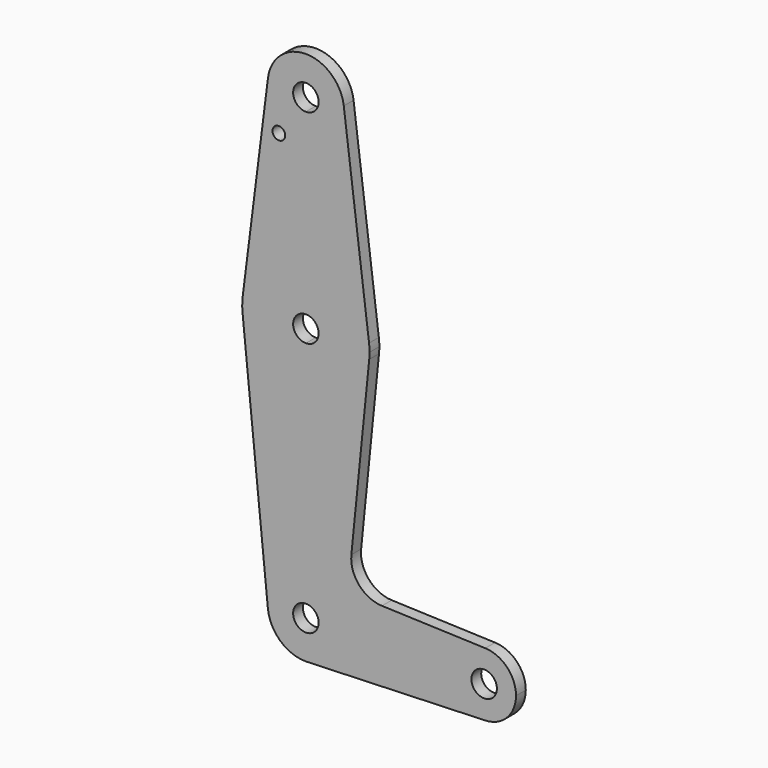
from build123d import *

# Parameters (mm, degrees)
F0_R     = 1.5875
F1_DEPTH = 3.048


with BuildPart() as f1:
    # F0 (on Front) → F1 (new body)
    with BuildSketch(Plane.XZ):
        with BuildLine():
            ThreePointArc((-9.4502929642, 65.7090227235), (-7.14375, 58.218202414), (0, 54.9933977235))
            ThreePointArc((0, 54.9933977235), (6.7351920908, 57.7832056327), (9.525, 64.5183977235))
            ThreePointArc((9.525, 64.5183977235), (9.5063048942, 65.1148809655), (9.4502929642, 65.7090227235))
            ThreePointArc((9.4502929642, 65.7090227235), (0, 74.0433977235), (-9.4502929642, 65.7090227235))
        make_face()
        with BuildLine():
            ThreePointArc((3.175, 64.5183977235), (2.2450640303, 62.2733336932), (0, 61.3433977235))
            ThreePointArc((0, 61.3433977235), (-2.2450640303, 66.7634617538), (3.175, 64.5183977235))
        make_face(mode=Mode.SUBTRACT)
        with BuildLine():
            ThreePointArc((9.525, 64.5183977235), (6.7351920908, 57.7832056327), (0, 54.9933977235))
            Line((0, 54.9933977235), (0, 29.5933977235))
            ThreePointArc((0, 29.5933977235), (10.5003255158, 25.6246477235), (15.7504882737, 15.7027727235))
            Line((15.7504882737, 15.7027727235), (9.4502929642, 65.7090227235))
            ThreePointArc((9.4502929642, 65.7090227235), (9.5063048942, 65.1148809655), (9.525, 64.5183977235))
        make_face()
        with BuildLine():
            Line((0, 29.5933977235), (0, 54.9933977235))
            ThreePointArc((0, 54.9933977235), (-7.14375, 58.218202414), (-9.4502929642, 65.7090227235))
            Line((-9.4502929642, 65.7090227235), (-15.7504882737, 15.7027727235))
            ThreePointArc((-15.7504882737, 15.7027727235), (-10.5003255158, 25.6246477235), (0, 29.5933977235))
        make_face()
        with Locations((-6.7307394986, 54.4537793603)):
            Circle(F0_R, mode=Mode.SUBTRACT)
        with BuildLine():
            Line((0, 16.8933977235), (0, 29.5933977235))
            ThreePointArc((0, 29.5933977235), (-10.5003255158, 25.6246477235), (-15.7504882737, 15.7027727235))
            ThreePointArc((-15.7504882737, 15.7027727235), (-15.8737438155, 13.9181032102), (-15.7954255641, 12.1308977235))
            ThreePointArc((-15.7954255641, 12.1308977235), (-10.6492737428, 1.9451826252), (0, -2.1566022765))
            Line((0, -2.1566022765), (0, 10.5433977235))
            ThreePointArc((0, 10.5433977235), (-3.175, 13.7183977235), (0, 16.8933977235))
        make_face()
        with BuildLine():
            ThreePointArc((15.7504882737, 15.7027727235), (10.5003255158, 25.6246477235), (0, 29.5933977235))
            Line((0, 29.5933977235), (0, 16.8933977235))
            ThreePointArc((0, 16.8933977235), (2.2450640303, 15.9634617538), (3.175, 13.7183977235))
            ThreePointArc((3.175, 13.7183977235), (2.2450640303, 11.4733336932), (0, 10.5433977235))
            Line((0, 10.5433977235), (0, -2.1566022765))
            ThreePointArc((0, -2.1566022765), (10.6492737428, 1.9451826252), (15.7954255641, 12.1308977235))
            ThreePointArc((15.7954255641, 12.1308977235), (15.8550939106, 12.9236511694), (15.875, 13.7183977235))
            ThreePointArc((15.875, 13.7183977235), (15.8438414904, 14.7125364601), (15.7504882737, 15.7027727235))
        make_face()
        with BuildLine():
            ThreePointArc((0, -2.1566022765), (-10.6492737428, 1.9451826252), (-15.7954255641, 12.1308977235))
            Line((-15.7954255641, 12.1308977235), (-9.4772553384, -50.7341022765))
            ThreePointArc((-9.4772553384, -50.7341022765), (-7.063929059, -43.3920380308), (0, -40.2566022765))
            Line((0, -40.2566022765), (0, -2.1566022765))
        make_face()
        with BuildLine():
            ThreePointArc((15.7954255641, 12.1308977235), (10.6492737428, 1.9451826252), (0, -2.1566022765))
            Line((0, -2.1566022765), (0, -40.2566022765))
            ThreePointArc((0, -40.2566022765), (6.7351920908, -43.0464101857), (9.525, -49.7816022765))
            Line((9.525, -49.7816022765), (36.5125, -49.7816022765))
            ThreePointArc((36.5125, -49.7816022765), (38.9384772185, -44.0695953718), (44.7334821429, -41.8491660729))
            Line((44.7334821429, -41.8491660729), (18.9676000005, -40.9283685657))
            ThreePointArc((18.9676000005, -40.9283685657), (13.2611998974, -38.2102431267), (11.3411865923, -32.1882204641))
            Line((11.3411865923, -32.1882204641), (15.7954255641, 12.1308977235))
        make_face()
        with BuildLine():
            ThreePointArc((9.525, -49.7816022765), (6.7351920908, -43.0464101857), (0, -40.2566022765))
            Line((0, -40.2566022765), (0, -46.6066022765))
            ThreePointArc((0, -46.6066022765), (2.2450640303, -47.5365382462), (3.175, -49.7816022765))
            Line((3.175, -49.7816022765), (9.525, -49.7816022765))
        make_face()
        with BuildLine():
            ThreePointArc((0, -40.2566022765), (-7.063929059, -43.3920380308), (-9.4772553384, -50.7341022765))
            ThreePointArc((-9.4772553384, -50.7341022765), (-6.3895642457, -56.8455313355), (0, -59.3066022765))
            Line((0, -59.3066022765), (0.6773435479, -59.2824880625))
            ThreePointArc((0.6773435479, -59.2824880625), (6.9705567315, -56.2729013648), (9.525, -49.7816022765))
            Line((9.525, -49.7816022765), (3.175, -49.7816022765))
            ThreePointArc((3.175, -49.7816022765), (-2.2450640303, -52.0266663068), (0, -46.6066022765))
            Line((0, -46.6066022765), (0, -40.2566022765))
        make_face()
        with BuildLine():
            Line((36.5125, -49.7816022765), (9.525, -49.7816022765))
            ThreePointArc((9.525, -49.7816022765), (6.9705567315, -56.2729013648), (0.6773435479, -59.2824880625))
            Line((0.6773435479, -59.2824880625), (44.7334821429, -57.7140385533))
            ThreePointArc((44.7334821402, -57.7140384802), (38.9384772176, -55.4936091803), (36.5125, -49.7816022765))
        make_face()
        with BuildLine():
            ThreePointArc((44.7334821429, -41.8491660729), (38.9384772185, -44.0695953718), (36.5125, -49.7816022765))
            ThreePointArc((36.5125, -49.7816022765), (38.9384772176, -55.4936091803), (44.7334821402, -57.7140384802))
            ThreePointArc((44.7334821402, -57.7140384802), (50.1620069038, -55.2931250589), (52.3875, -49.7816022765))
            ThreePointArc((52.3875, -49.7816022765), (50.1620069047, -44.270079495), (44.7334821429, -41.8491660729))
        make_face()
        with BuildLine():
            ThreePointArc((47.625, -49.7816022765), (44.45, -52.9566022765), (41.275, -49.7816022765))
            ThreePointArc((41.275, -49.7816022765), (44.45, -46.6066022765), (47.625, -49.7816022765))
        make_face(mode=Mode.SUBTRACT)
    extrude(amount=F1_DEPTH)


solid = f1.part
